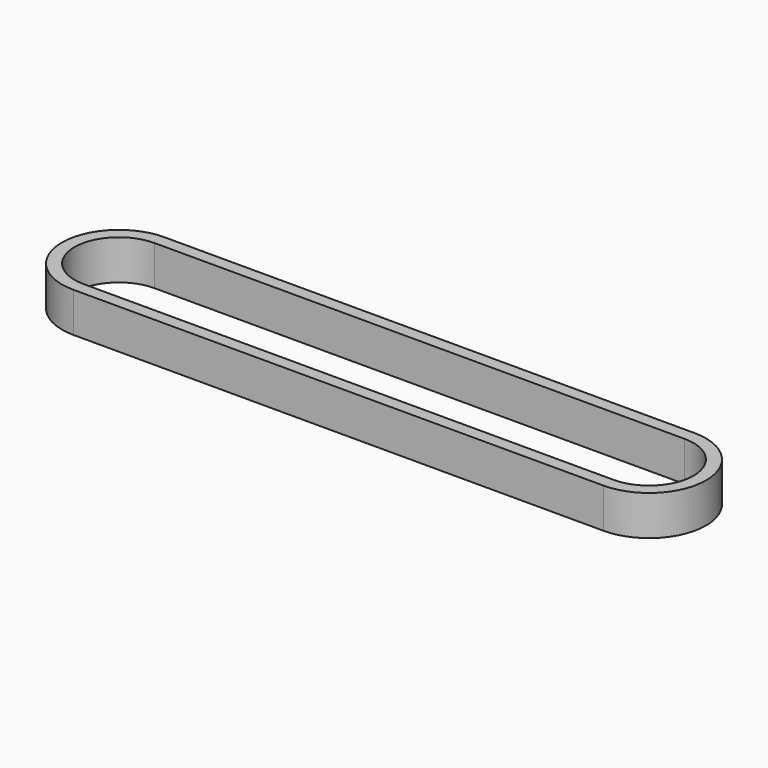
from build123d import *

# Parameters (mm, degrees)
PAD_DEPTH = 9.525


with BuildPart() as part:
    # Sketch → Pad (new body)
    with BuildSketch(Plane.XY):
        with BuildLine():
            ThreePointArc((0, 13.6285), (-13.6285, 0), (0, -13.6285))
            Line((0, -13.6285), (126.997194, -13.6285))
            ThreePointArc((126.997194, -13.6285), (140.625694, 0), (126.997194, 13.6285))
            Line((0, 13.6285), (126.997194, 13.6285))
        make_face()
        with BuildLine():
            ThreePointArc((0, 10.6285), (-10.6285, 0), (0, -10.6285))
            Line((0, -10.6285), (126.997194, -10.6285))
            ThreePointArc((126.997194, -10.6285), (137.625694, 0), (126.997194, 10.6285))
            Line((0, 10.6285), (126.997194, 10.6285))
        make_face(mode=Mode.SUBTRACT)
    extrude(amount=PAD_DEPTH)


solid = part.part
